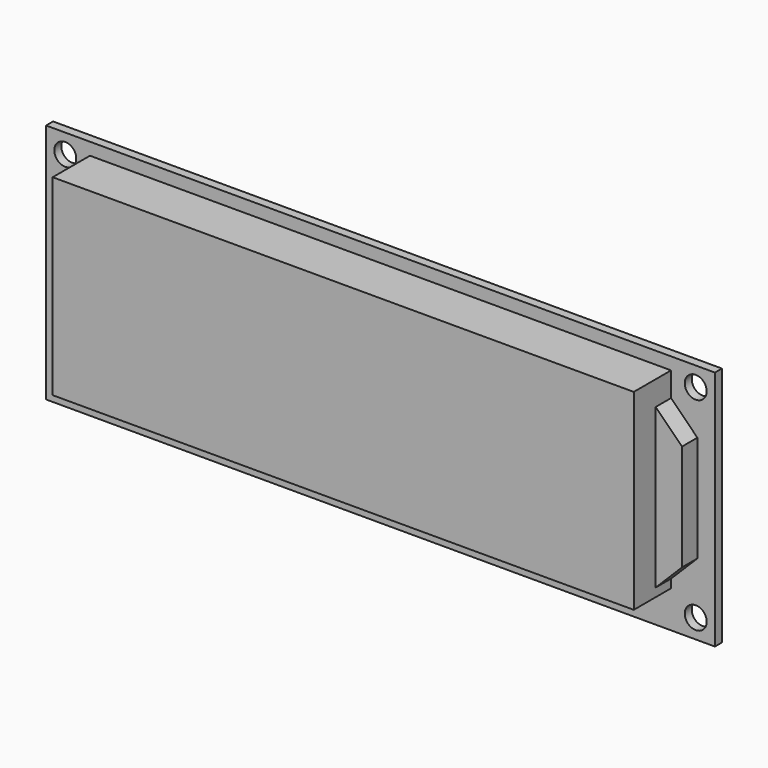
from build123d import *

# Parameters (mm, degrees)
F0_W     = 122
F0_H     = 44
F0_R     = 2
F1_DEPTH = 1.6
F2_W     = 106
F2_H     = 35
F3_DEPTH = 8.5
F5_DEPTH = 3.5


with BuildPart() as f1:
    # F0 (on Front) → F1 (new body)
    with BuildSketch(Plane.XZ):
        Rectangle(F0_W, F0_H)
        with Locations((-57.5, -18.5)):
            Circle(F0_R, mode=Mode.SUBTRACT)
        with Locations((57.5, -18.5)):
            Circle(F0_R, mode=Mode.SUBTRACT)
        with Locations((-57.5, 18.5)):
            Circle(F0_R, mode=Mode.SUBTRACT)
        with Locations((57.5, 18.5)):
            Circle(F0_R, mode=Mode.SUBTRACT)
    extrude(amount=-F1_DEPTH)

    # F2 (on Front) → F3 (join)
    with BuildSketch(Plane.XZ):
        with Locations((0, 2.25)):
            Rectangle(F2_W, F2_H)
    extrude(amount=F3_DEPTH)

    # F4 (on Front) → F5 (join)
    with BuildSketch(Plane.XZ):
        Polygon((53, 15.300509), (53, -13.699491), (57.8, -8.899491), (57.8, 10.500509), align=None)
    extrude(amount=F5_DEPTH)


solid = f1.part
